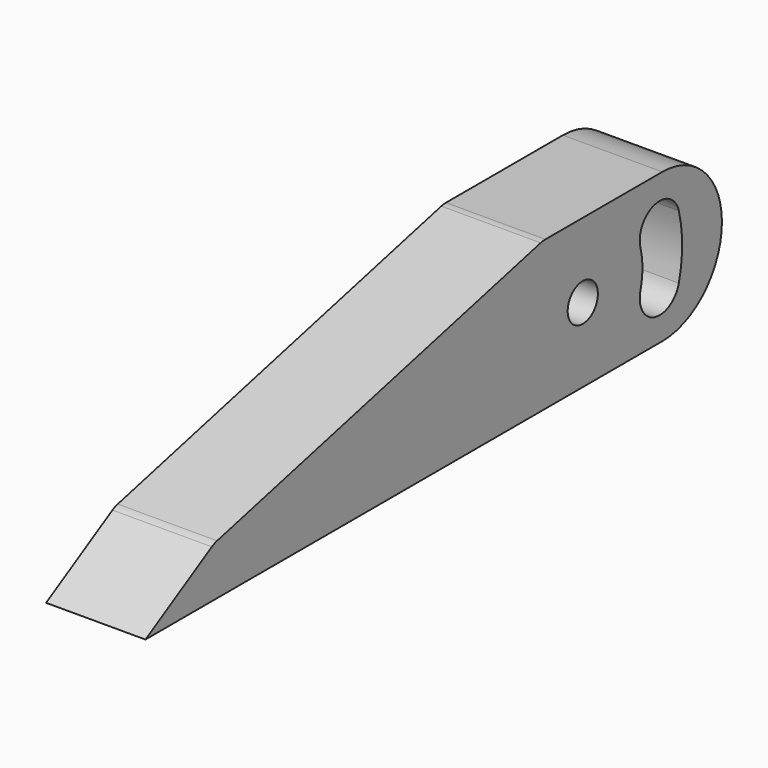
from build123d import *

# Parameters (mm, degrees)
F1_DEPTH = 12.7
F2_D     = 4.826
F3_R     = 3.175


with BuildPart() as f1:
    # F0 (on Right) → F1 (new body)
    with BuildSketch(Plane.YZ):
        with BuildLine():
            Line((10.9985226281, 6.35), (0, 0))
            Line((0, 0), (82.55, 0))
            ThreePointArc((82.55, 0), (92.075, 9.525), (82.55, 19.05))
            Line((82.55, 19.05), (63.5, 19.05))
            Line((63.5, 19.05), (10.9985226281, 6.35))
        make_face()
        with BuildLine():
            ThreePointArc((79.0569245722, 11.9659352556), (81.3122543444, 15.8485551982), (85.194874287, 13.5932254261))
            ThreePointArc((85.194874287, 13.5932254261), (85.725, 9.525), (85.194874287, 5.4567745739))
            ThreePointArc((85.194874287, 5.4567745739), (81.3122543444, 3.2014448018), (79.0569245722, 7.0840647444))
            ThreePointArc((79.0569245722, 7.0840647444), (79.375, 9.525), (79.0569245722, 11.9659352556))
        make_face(mode=Mode.SUBTRACT)
    extrude(amount=F1_DEPTH)

    # F2 (through all)
    with Locations(Plane(origin=(0, 0, 0), x_dir=(0, 1, 0), z_dir=(-1, 0, 0))):
        with Locations((69.85, -9.525), (82.4664258806, -8.070421711)):
            Hole(F2_D / 2)

    # F3
    f3_edges = [f1.edges().sort_by_distance(p)[0] for p in [
        (6.35, 63.5, 19.05),
        (6.35, 10.998523, 6.35),
    ]]
    fillet(f3_edges, radius=F3_R)


solid = f1.part
